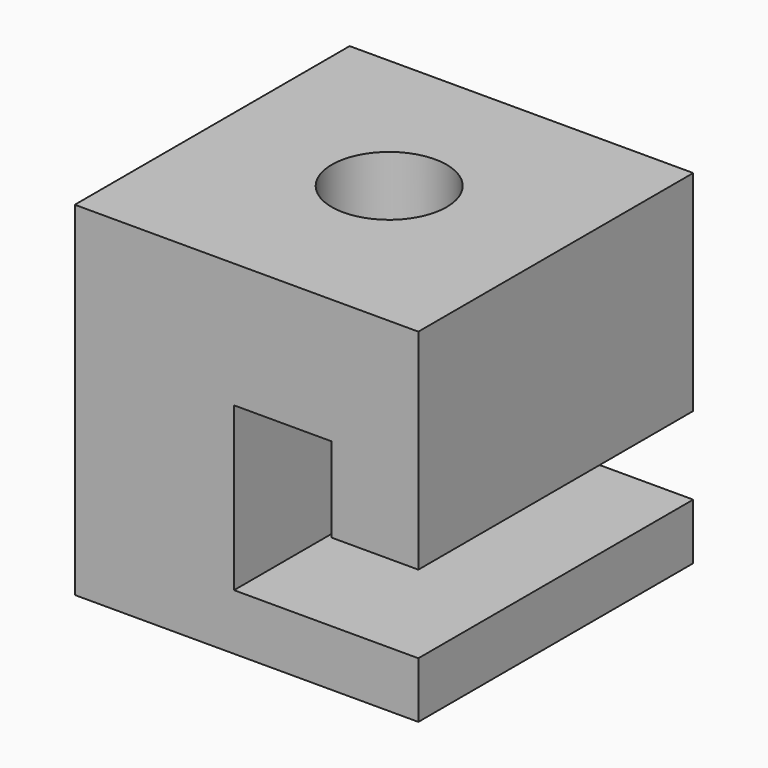
from build123d import *

# Parameters (mm, degrees)
F0_W     = 152.4
F0_H     = 152.4
F1_DEPTH = 152.4
F2_R     = 25.478532
F3_DEPTH = 152.4
F4_W     = 43.219294
F4_H     = 37.589584
F5_DEPTH = 152.4


with BuildPart() as f1:
    # F0 (on Top) → F1 (new body)
    with BuildSketch(Plane.XY):
        Rectangle(F0_W, F0_H)
    extrude(amount=F1_DEPTH)

    # F2 (on face) → F3 (cut)
    with BuildSketch(Plane.XY.offset(152.4)):
        with Locations((0, 2.878058)):
            Circle(F2_R)
    extrude(amount=-F3_DEPTH, mode=Mode.SUBTRACT)

    # F4 (on face) → F5 (cut)
    with BuildSketch(Plane(origin=(0, 76.2, 0), x_dir=(-1, 0, 0), z_dir=(0, 1, 0))):
        with Locations((-16.05138, 78.249803)):
            Rectangle(F4_W, F4_H)
        Polygon((5.558267, 59.455011), (-37.661027, 59.455011), (-76.2, 59.455011), (-76.2, 24.858916), (5.558267, 24.858916), align=None)
    extrude(amount=-F5_DEPTH, mode=Mode.SUBTRACT)


solid = f1.part
